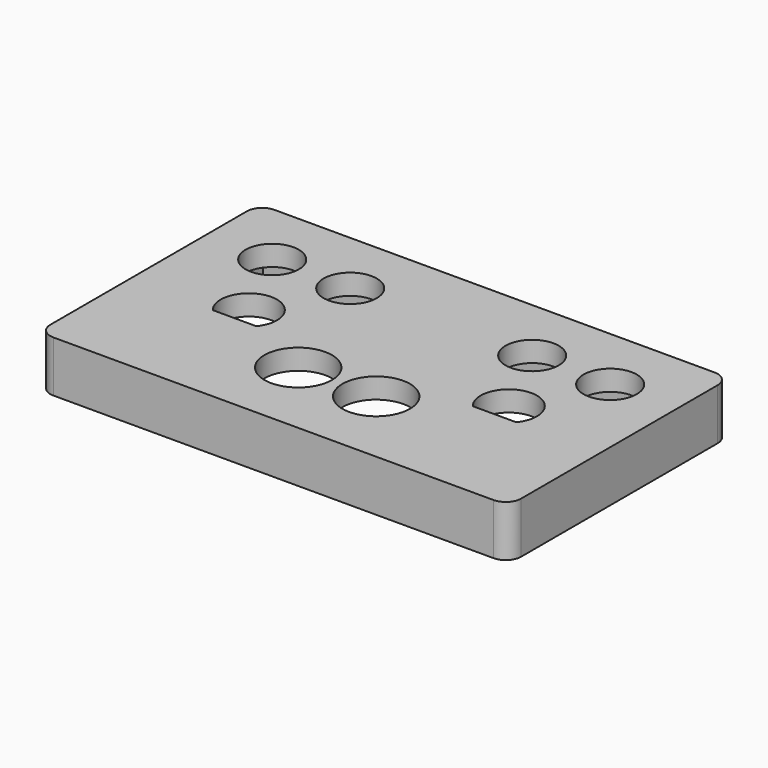
from build123d import *

# Parameters (mm, degrees)
SKETCH_W        = 46
SKETCH_H        = 27
PAD_DEPTH       = 3
SKETCH001_W     = 46
SKETCH001_H     = 27
SKETCH001_R     = 2.6
SKETCH001_R_2   = 3.3
PAD001_DEPTH    = 2
SKETCH002_W     = 5.5
SKETCH002_H     = 2
POCKET_DEPTH    = 2
SKETCH003_R     = 0.875
POCKET001_DEPTH = 2.5
FILLET_R        = 1.5
FILLET001_R     = 0.25


with BuildPart() as part:
    # Sketch → Pad (new body)
    with BuildSketch(Plane.XY):
        Rectangle(SKETCH_W, SKETCH_H)
        Polygon((-21, 11.5), (21, 11.5), (21, 1.27), (19, 1.27), (19, -1.27), (21, -1.27), (21, -11.5), (-21, -11.5), (-21, -1.27), (-19, -1.27), (-19, 1.27), (-21, 1.27), align=None, mode=Mode.SUBTRACT)
    extrude(amount=PAD_DEPTH)

    # Sketch001 (on Face18 of Pad) → Pad001 (join)
    with BuildSketch(Plane.XY.offset(3)):
        Rectangle(SKETCH001_W, SKETCH001_H)
        with Locations((-16.51, 6.985)):
            Circle(SKETCH001_R, mode=Mode.SUBTRACT)
        with Locations((-8.89, 6.985)):
            Circle(SKETCH001_R, mode=Mode.SUBTRACT)
        with Locations((8.89, 6.985)):
            Circle(SKETCH001_R, mode=Mode.SUBTRACT)
        with Locations((16.51, 6.985)):
            Circle(SKETCH001_R, mode=Mode.SUBTRACT)
        with Locations((-3.81, -5.715)):
            Circle(SKETCH001_R_2, mode=Mode.SUBTRACT)
        with Locations((3.81, -5.715)):
            Circle(SKETCH001_R_2, mode=Mode.SUBTRACT)
        with BuildLine():
            ThreePointArc((-10.575, -2.38053), (-12.7, 2.115), (-14.825, -2.38053))
            Line((-14.825, -2.38053), (-10.575, -2.38053))
        make_face(mode=Mode.SUBTRACT)
        with BuildLine():
            ThreePointArc((14.825, -2.38053), (12.7, 2.115), (10.575, -2.38053))
            Line((10.575, -2.38053), (14.825, -2.38053))
        make_face(mode=Mode.SUBTRACT)
    extrude(amount=PAD001_DEPTH)

    # Sketch002 (on Face4 of Pad001) → Pocket (cut)
    with BuildSketch(Plane(origin=(0, 0, 0), x_dir=(1, 0, 0), z_dir=(0, 0, -1))):
        with Locations((0, -12.5)):
            Rectangle(SKETCH002_W, SKETCH002_H)
    extrude(amount=-POCKET_DEPTH, mode=Mode.SUBTRACT)

    # Sketch003 (on Face2 of Pocket) → Pocket001 (cut)
    with BuildSketch(Plane(origin=(0, 0, 0), x_dir=(1, 0, 0), z_dir=(0, 0, -1))):
        with Locations((21, 0)):
            Circle(SKETCH003_R)
        with Locations((-21, 0)):
            Circle(SKETCH003_R)
    extrude(amount=-POCKET001_DEPTH, mode=Mode.SUBTRACT)

    # Fillet
    fillet_edges = [part.edges().sort_by_distance(p)[0] for p in [
        (-23, -13.5, 1.5),
        (23, -13.5, 1.5),
        (-23, 13.5, 1.5),
        (23, 13.5, 1.5),
    ]]
    fillet(fillet_edges, radius=FILLET_R)

    # Fillet001
    fillet001_edges = [part.edges().sort_by_distance(p)[0] for p in [
        (-21.875, 0, 0),
        (20.125, 0, 0),
    ]]
    fillet(fillet001_edges, radius=FILLET001_R)


solid = part.part
